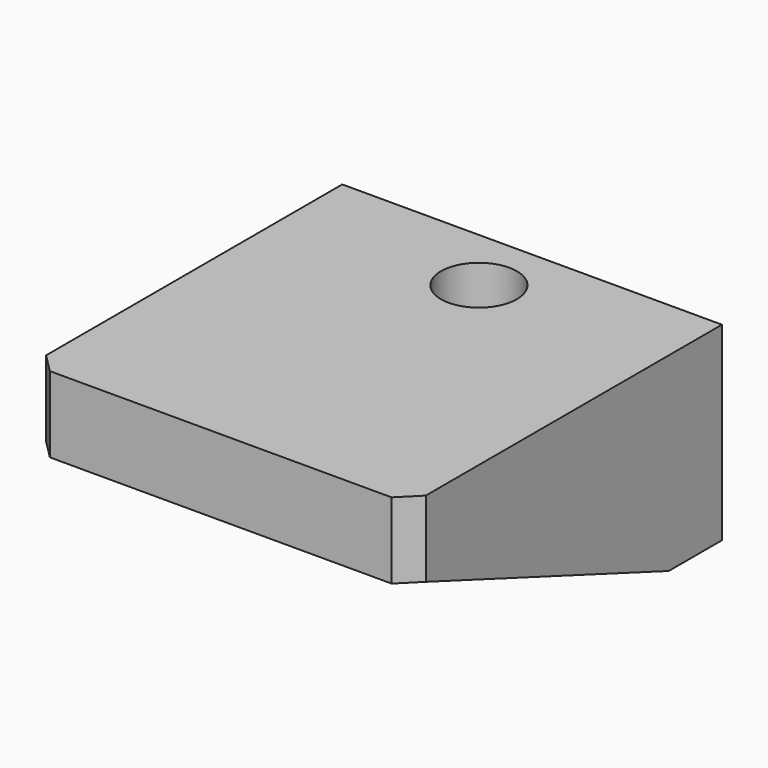
from build123d import *

# Parameters (mm, degrees)
CYLINDER005_R            = 2
CYLINDER005_DEPTH        = 10
BOX009_W                 = 20
BOX009_H                 = 20.5
BOX009_DEPTH             = 4
CHAMFER003001006_SIZE    = 1
BOX010_W                 = 20
BOX010_H                 = 3
BOX010_DEPTH             = 10
BOX012_W                 = 3
BOX012_H                 = 17
BOX012_DEPTH             = 10
BOX011_W                 = 3
BOX011_H                 = 17
BOX011_DEPTH             = 10
CHAMFER003001007_1_SIZE2 = 16
CHAMFER003001007_1_SIZE  = 6
CHAMFER003001007_2_SIZE2 = 16
CHAMFER003001007_2_SIZE  = 6


with BuildPart() as cylinder005:
    # Cylinder005 → Cylinder005 (new body)
    with BuildSketch(Plane(origin=(0, -8.5, -6), x_dir=(1, 0, 0), z_dir=(0, 0, 1))):
        Circle(CYLINDER005_R)
    extrude(amount=CYLINDER005_DEPTH)


with BuildPart() as chamfer003001006:
    # Box009 → Box009 (new body)
    with BuildSketch(Plane(origin=(-10, -25.5, -4), x_dir=(1, 0, 0), z_dir=(0, 0, 1))):
        with Locations((10, 10.25)):
            Rectangle(BOX009_W, BOX009_H)
    extrude(amount=BOX009_DEPTH)

    # Chamfer003001006
    chamfer003001006_edges = [chamfer003001006.edges().sort_by_distance(p)[0] for p in [
        (-10, -25.5, -2),
        (10, -25.5, -2),
    ]]
    chamfer(chamfer003001006_edges, length=CHAMFER003001006_SIZE)


with BuildPart() as cube010:
    # Box010 → Box010 (new body)
    with BuildSketch(Plane(origin=(-10, -8, -10), x_dir=(1, 0, 0), z_dir=(0, 0, 1))):
        with Locations((10, 1.5)):
            Rectangle(BOX010_W, BOX010_H)
    extrude(amount=BOX010_DEPTH)


with BuildPart() as cube012:
    # Box012 → Box012 (new body)
    with BuildSketch(Plane(origin=(7, -24.5, -10), x_dir=(1, 0, 0), z_dir=(0, 0, 1))):
        with Locations((1.5, 8.5)):
            Rectangle(BOX012_W, BOX012_H)
    extrude(amount=BOX012_DEPTH)


with BuildPart() as cut005:
    # Box011 → Box011 (new body)
    with BuildSketch(Plane(origin=(-10, -24.5, -10), x_dir=(1, 0, 0), z_dir=(0, 0, 1))):
        with Locations((1.5, 8.5)):
            Rectangle(BOX011_W, BOX011_H)
    extrude(amount=BOX011_DEPTH)

    # Fusion005: union Cube012
    add(cube012.part)

    # Chamfer003001007 1
    chamfer003001007_1_edges = [cut005.edges().sort_by_distance(p)[0] for p in [
        (8.5, -24.5, -10),
    ]]
    chamfer003001007_1_side = cut005.faces().sort_by_distance((8.5, -24.5, -5))[0]
    chamfer(chamfer003001007_1_edges, length=CHAMFER003001007_1_SIZE, length2=CHAMFER003001007_1_SIZE2, reference=chamfer003001007_1_side)

    # Chamfer003001007 2
    chamfer003001007_2_edges = [cut005.edges().sort_by_distance(p)[0] for p in [
        (-8.5, -24.5, -10),
    ]]
    chamfer003001007_2_side = cut005.faces().sort_by_distance((-8.5, -24.5, -5))[0]
    chamfer(chamfer003001007_2_edges, length=CHAMFER003001007_2_SIZE, length2=CHAMFER003001007_2_SIZE2, reference=chamfer003001007_2_side)

    # Fusion006: union Chamfer003001006, Cube010
    add(chamfer003001006.part)
    add(cube010.part)

    # Cut005: cut Cylinder005
    add(cylinder005.part, mode=Mode.SUBTRACT)


solid = cut005.part
